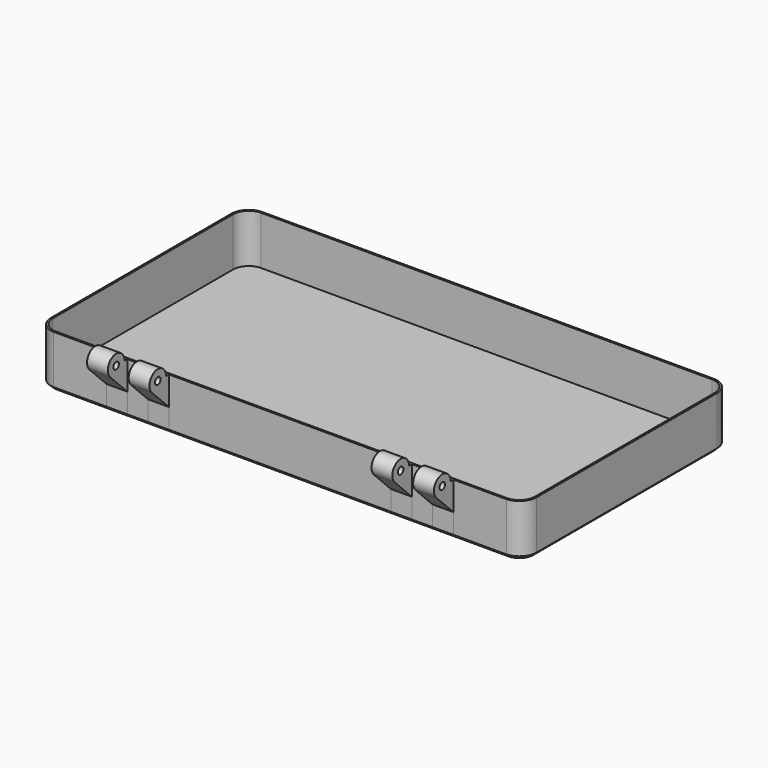
from build123d import *

# Parameters (mm, degrees)
PAD_DEPTH            = 15
POCKET_DEPTH         = 14
SKETCH002_R          = 1
PAD001_DEPTH         = 140
SKETCH008_W          = 20
SKETCH008_H          = 20
SKETCH008_W_2        = 6
SKETCH008_W_3        = 64
POCKET004_DEPTH      = 15.001
POCKET004_DEPTH_BACK = 3.001
SKETCH009_W          = 15
SKETCH009_H          = 3.5
PAD004_DEPTH         = 1
POCKET005_DEPTH      = 140.001
CHAMFER001_SIZE      = 1


with BuildPart() as part:
    # Sketch → Pad (new body)
    with BuildSketch(Plane.XY):
        with BuildLine():
            Line((-70, 32.5), (-70, -32.5))
            ThreePointArc((-70, -32.5), (-68.535534, -36.035534), (-65, -37.5))
            Line((-65, -37.5), (65, -37.5))
            ThreePointArc((65, -37.5), (68.535534, -36.035534), (70, -32.5))
            Line((70, -32.5), (70, 32.5))
            ThreePointArc((70, 32.5), (68.535534, 36.035534), (65, 37.5))
            Line((65, 37.5), (-65, 37.5))
            ThreePointArc((-65, 37.5), (-68.535534, 36.035534), (-70, 32.5))
        make_face()
    extrude(amount=PAD_DEPTH)

    # Sketch001 (on Face10 of Pad) → Pocket (cut)
    with BuildSketch(Plane.XY.offset(15)):
        with BuildLine():
            Line((-69.5, 32.5), (-69.5, -32.5))
            ThreePointArc((-69.5, -32.5), (-68.181981, -35.681981), (-65, -37))
            Line((-65, -37), (65, -37))
            ThreePointArc((65, -37), (68.181981, -35.681981), (69.5, -32.5))
            Line((69.5, -32.5), (69.5, 32.5))
            ThreePointArc((69.5, 32.5), (68.181981, 35.681981), (65, 37))
            Line((65, 37), (-65, 37))
            ThreePointArc((-65, 37), (-68.181981, 35.681981), (-69.5, 32.5))
        make_face()
    extrude(amount=-POCKET_DEPTH, mode=Mode.SUBTRACT)

    # Sketch002 (on Face9 of Pocket) → Pad001 (join)
    with BuildSketch(Plane.YZ.offset(70)):
        with BuildLine():
            ThreePointArc((-38.5, 15), (-42.64805, 17.771639), (-43.62132, 12.87868))
            Line((-43.62132, 12.87868), (-37.5, 6.757359))
            Line((-37.5, 15), (-37.5, 6.757359))
            Line((-37.5, 15), (-38.5, 15))
        make_face()
        with Locations((-41.5, 15)):
            Circle(SKETCH002_R, mode=Mode.SUBTRACT)
    extrude(amount=-PAD001_DEPTH)

    # Sketch008 (on Face17 of Pad001) → Pocket004 (cut, two sides)
    with BuildSketch(Plane.XY.offset(15)) as pocket004_sk:
        with Locations((-60, -47.49)):
            Rectangle(SKETCH008_W, SKETCH008_H)
        with Locations((60, -47.49)):
            Rectangle(SKETCH008_W, SKETCH008_H)
        with Locations((41, -47.49)):
            Rectangle(SKETCH008_W_2, SKETCH008_H)
        with Locations((-41, -47.49)):
            Rectangle(SKETCH008_W_2, SKETCH008_H)
        with Locations((0, -47.49)):
            Rectangle(SKETCH008_W_3, SKETCH008_H)
    extrude(amount=-POCKET004_DEPTH, mode=Mode.SUBTRACT)
    extrude(pocket004_sk.sketch, amount=POCKET004_DEPTH_BACK, mode=Mode.SUBTRACT)

    # Sketch009 (on Face6 of Pocket004) → Pad004 (join)
    with BuildSketch(Plane(origin=(0, 37.5, 0), x_dir=(-1, 0, 0), z_dir=(0, 1, 0))):
        with Locations((32.5, 12.25)):
            Rectangle(SKETCH009_W, SKETCH009_H)
        with Locations((-32.5, 12.25)):
            Rectangle(SKETCH009_W, SKETCH009_H)
    extrude(amount=PAD004_DEPTH)

    # Sketch010 (on Face1 of Pad004) → Pocket005 (cut, through all)
    with BuildSketch(Plane(origin=(-70, 0, 0), x_dir=(0, -1, 0), z_dir=(-1, 0, 0))):
        Polygon((-37.5, 10.5), (-38.5, 11.5), (-38.5, 10.5), align=None)
        Polygon((-38.5, 13), (-37.5, 14), (-38.5, 14), align=None)
    extrude(amount=-POCKET005_DEPTH, mode=Mode.SUBTRACT)

    # Chamfer001
    chamfer001_edges = [part.edges().sort_by_distance(p)[0] for p in [
        (-68.535534, 36.035534, 0),
        (0, 37.5, 0),
        (68.535534, 36.035534, 0),
        (70, 0, 0),
        (68.645569, -35.921962, 0),
        (57.658035, -37.49, 0),
        (50, -37.495, 0),
        (47, -37.5, 0),
        (44, -37.495, 0),
        (41, -37.49, 0),
        (38, -37.495, 0),
        (35, -37.5, 0),
        (32, -37.495, 0),
        (0, -37.49, 0),
        (-32, -37.495, 0),
        (-35, -37.5, 0),
        (-38, -37.495, 0),
        (-41, -37.49, 0),
        (-44, -37.495, 0),
        (-47, -37.5, 0),
        (-50, -37.495, 0),
        (-57.658035, -37.49, 0),
        (-68.645569, -35.921962, 0),
        (-70, 0, 0),
    ]]
    chamfer(chamfer001_edges, length=CHAMFER001_SIZE)


solid = part.part
